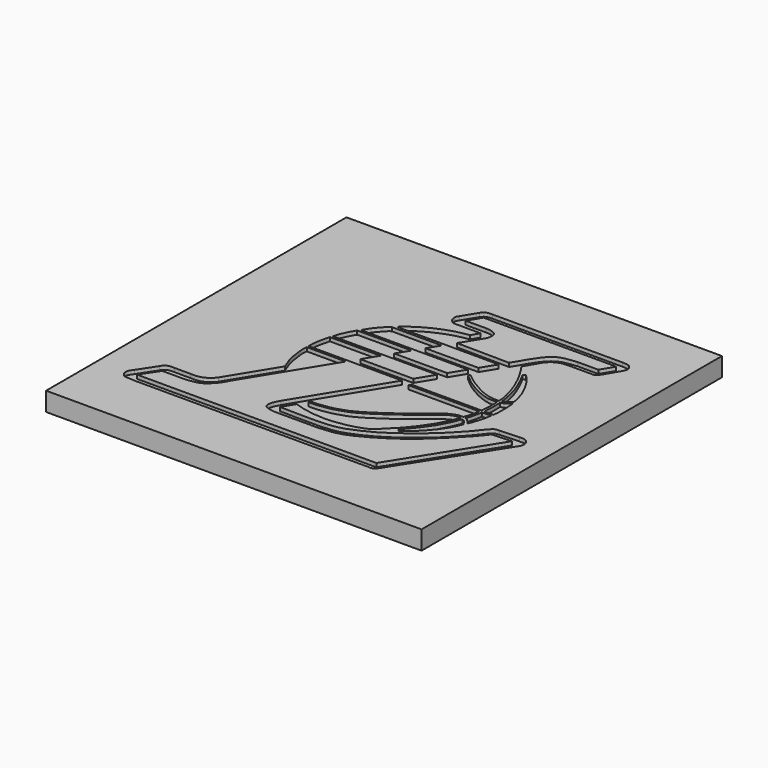
from build123d import *

# Parameters (mm, degrees)
F0_W     = 100
F0_H     = 100
F1_DEPTH = 5
F3_DEPTH = 1


with BuildPart() as f1:
    # F0 (on Top) → F1 (new body)
    with BuildSketch(Plane.XY):
        with Locations((-50, 50)):
            Rectangle(F0_W, F0_H)
    extrude(amount=F1_DEPTH)

    # F2 (on face) → F3 (cut)
    with BuildSketch(Plane.XY.offset(5)):
        with BuildLine():
            Line((-51.5274539174, 79.123011928), (-49.4849421084, 82.5271908258))
            Line((-49.4849421084, 82.5271908258), (-14.1663281247, 82.5271908258))
            Line((-14.1663281247, 82.5271908258), (-16.2088399337, 79.123011928))
            Line((-16.2088399337, 79.123011928), (-21.741559729, 79.123011928))
            add(Edge.make_bspline(
                [(-32.670173794, 69.9614882469), (-32.4207677421, 70.2997881837), (-31.7335162522, 71.5871950323), (-30.3650841851, 73.8327382776), (-29.4141445743, 75.2925391817), (-28.6032452797, 76.3909434638), (-27.5857577226, 77.4199337587), (-26.4899431304, 78.196814775), (-25.2139650171, 78.6338036192), (-23.993198061, 78.886434844), (-22.5612169246, 79.0368566919), (-21.741559729, 79.123011928)],
                knots=[0, 0, 0, 0, 0.1155700486, 0.258313772, 0.3722297886, 0.471901715, 0.5750680057, 0.6751662509, 0.7733763566, 0.8694233338, 1, 1, 1, 1], degree=3))
            Line((-32.670173794, 69.9614882469), (-33.8627376864, 68.0149895725))
            Line((-33.8627376864, 68.0149895725), (-36.1984442072, 64.2026574406))
            Line((-36.1984442072, 64.2026574406), (-37.4150750561, 62.2168767628))
            Line((-37.4150750561, 62.2168767628), (-39.8096593654, 58.3084445074))
            Line((-39.8096593654, 58.3084445074), (-40.9796684294, 56.3987597463))
            Line((-40.9796684294, 56.3987597463), (-43.7276395229, 51.9135307997))
            Line((-43.7276395229, 51.9135307997), (-45.0325298593, 49.7836932906))
            Line((-45.0325298593, 49.7836932906), (-58.9935444295, 26.9965734333))
            add(Edge.make_bspline(
                [(-58.9935444295, 26.9965734333), (-59.1089134494, 26.778688134), (-59.3390352058, 26.3440814447), (-59.7227659267, 25.708858343), (-59.8749726799, 25.1469248385), (-60.0307646349, 24.6504624154), (-60.092519483, 24.2851666921), (-60.1512937492, 23.8268908819), (-59.9960524099, 23.4879367807), (-59.8254652769, 23.0827130475), (-59.3674972344, 22.7939096379), (-58.9107571763, 22.620688487), (-58.2200560949, 22.4304876058), (-57.5580783362, 22.3060091873), (-56.9313356625, 22.2891100575), (-56.5902963281, 22.2799144685)],
                knots=[0, 0, 0, 0, 0.0879843118, 0.1754986251, 0.2535986176, 0.3261649004, 0.3888143365, 0.4565446855, 0.5182881447, 0.584817462, 0.657984844, 0.730051745, 0.8152179706, 0.8994516522, 1, 1, 1, 1], degree=3))
            Line((-56.5902963281, 22.2799144685), (-45.5174744129, 22.2799144685))
            add(Edge.make_bspline(
                [(-45.5174744129, 22.2799144685), (-44.7162945899, 22.327896045), (-43.0730683384, 22.4263066438), (-40.392567217, 22.8504232175), (-37.7822119618, 23.8244855023), (-35.155937862, 25.1822379168), (-32.4785995081, 26.689092178), (-30.0846185551, 28.3282236087), (-27.3424116145, 30.1820819101), (-24.7029214, 32.5136614001), (-22.204278794, 34.8393226509), (-19.3142628061, 37.7894359909), (-17.78847906, 39.4463804714), (-15.7710164554, 41.8348394373), (-15.4766995306, 42.3245751651), (-15.3805986047, 42.4844846129)],
                knots=[0, 0, 0, 0, 0.0717935317, 0.1472491101, 0.2238532178, 0.3030283935, 0.383425003, 0.4617121134, 0.5452465862, 0.6310919442, 0.7175012778, 0.8094485551, 0.8819230539, 0.9614452894, 1, 1, 1, 1], degree=3))
            Line((-15.3805986047, 42.4844846129), (-10.1325800642, 42.7405685186))
            Line((-10.1325800642, 42.7405685186), (-26.0196737945, 17.4656435847))
            Line((-26.0196737945, 17.4656435847), (-89.8087695241, 17.4656435847))
            Line((-89.8087695241, 17.4656435847), (-86.6794958711, 22.0392029732))
            Line((-86.6794958711, 22.0392029732), (-80.9023678303, 22.0392029732))
            add(Edge.make_bspline(
                [(-80.9023678303, 22.0392029732), (-80.3952686627, 22.0733266084), (-79.3075450851, 22.1465215276), (-77.1928643341, 22.5561013518), (-75.8236086625, 23.4927975471), (-74.4074211988, 24.8613977392), (-73.4846877985, 26.170572945), (-73.2192637528, 26.7502005877), (-73.1064442932, 26.9965734333)],
                knots=[0, 0, 0, 0, 0.1664230591, 0.3569761041, 0.5264039782, 0.7112912477, 0.8772832908, 1, 1, 1, 1], degree=3))
            Line((-73.1064442932, 26.9965734333), (-59.5150309684, 49.1804314119))
            Line((-59.5150309684, 49.1804314119), (-69.9126943946, 49.1804314119))
            add(Edge.make_bspline(
                [(-68.0573433638, 39.5721420646), (-68.2883722623, 40.1292456865), (-68.758577561, 41.2630998344), (-69.3833843926, 43.1419321324), (-69.6791884696, 44.9171452983), (-69.9431994699, 46.7702351474), (-70.060460001, 48.2263119729), (-69.9582135339, 48.8865152788), (-69.9126943946, 49.1804314119)],
                knots=[0, 0, 0, 0, 0.1770116204, 0.3602657605, 0.5366059514, 0.7163207393, 0.873708734, 1, 1, 1, 1], degree=3))
            Line((-68.0573433638, 39.5721420646), (-75.7059953451, 27.0880386658))
            add(Edge.make_bspline(
                [(-81.3244432211, 24.6975310147), (-80.7851521368, 24.6734995076), (-79.7580720605, 24.6277314932), (-78.4687348996, 24.9438131453), (-77.3615439428, 25.4579109676), (-76.2079722104, 26.4135483498), (-75.8563506614, 26.8860110191), (-75.7059953451, 27.0880386658)],
                knots=[0, 0, 0, 0, 0.2232029151, 0.4250900372, 0.6228371726, 0.838723092, 1, 1, 1, 1], degree=3))
            Line((-81.3244432211, 24.6975310147), (-85.6183171272, 24.6975310147))
            add(Edge.make_bspline(
                [(-88.4808972478, 23.4093684703), (-88.3574140405, 23.6140664075), (-88.1191992487, 24.0089547292), (-87.6436289867, 24.4213964202), (-87.1274570842, 24.5792483627), (-86.543513996, 24.7371018432), (-85.9492395829, 24.7116846248), (-85.6183171272, 24.6975310147)],
                knots=[0, 0, 0, 0, 0.2058559052, 0.3971221892, 0.5740939003, 0.7628336518, 1, 1, 1, 1], degree=3))
            Line((-88.4808972478, 23.4093684703), (-91.4866104722, 18.8292358071))
            add(Edge.make_bspline(
                [(-91.4866104722, 18.8292358071), (-91.5865468885, 18.6814704035), (-91.7927705148, 18.3765502268), (-92.1706736836, 17.8859473933), (-92.3530573251, 17.386403514), (-92.3968852404, 16.8955632965), (-92.3273539408, 16.3115577532), (-91.991168287, 15.8441559925), (-91.5075034766, 15.2820594638), (-90.711896584, 15.1087041652), (-89.4136798971, 15.1581064586), (-88.9574361545, 15.0282905513), (-88.7671634555, 15.029096263)],
                knots=[0, 0, 0, 0, 0.0909870949, 0.1876372969, 0.2764277071, 0.3624542104, 0.4548438056, 0.5479276282, 0.6505327174, 0.7609442036, 0.9011528345, 1, 1, 1, 1], degree=3))
            Line((-88.7671634555, 15.029096263), (-27.8437483388, 15.029096263))
            add(Edge.make_bspline(
                [(-27.8437483388, 15.029096263), (-26.7927473463, 15.029096263), (-26.2490488331, 15.0861949184), (-25.2766856847, 14.8845759952), (-24.2377253917, 15.6992424739), (-23.7328935771, 16.6255797665), (-23.5178321767, 16.9556157509), (-23.2116782542, 17.4380535585)],
                knots=[0, 0, 0, 0, 0.2475673294, 0.4136202212, 0.6237597499, 0.8078326564, 1, 1, 1, 1], degree=3))
            Line((-23.2116782542, 17.4380535585), (-7.7246227302, 41.7135432363))
            add(Edge.make_bspline(
                [(-9.9953291938, 45.1341643929), (-9.6104331231, 45.1613091822), (-8.8809884116, 45.2140914341), (-7.9796021451, 44.8439218738), (-7.3133538695, 44.0653981303), (-7.2325865589, 43.035582421), (-7.3273173141, 42.291388582), (-7.4920379557, 42.1071462333), (-7.7246227302, 41.7135432363)],
                knots=[0, 0, 0, 0, 0.1854628649, 0.3550038957, 0.5283051546, 0.706123436, 0.8466467853, 1, 1, 1, 1], degree=3))
            Line((-9.9953291938, 45.1341643929), (-15.1569163427, 44.8811464012))
            add(Edge.make_bspline(
                [(-15.1569163427, 44.8811464012), (-15.509211327, 44.8689472778), (-16.1477380185, 44.8468366425), (-16.6878644735, 44.4367362275), (-17.5271686579, 43.688460075), (-18.4993792814, 42.2559469242), (-19.6729776663, 40.9040828806), (-20.5571551623, 39.9898672488), (-22.0655724005, 38.3263969258), (-23.946675396, 36.4175563004), (-26.2285751646, 34.3193403725), (-29.2849105435, 31.8778408397), (-31.8907463705, 30.0233404482), (-34.8058512741, 28.1332359396), (-37.7897127944, 26.6720257137), (-41.9736457936, 24.8502092602), (-46.6895842634, 24.5257099897), (-50.1036250124, 24.5406202963), (-54.8194944606, 24.584203946), (-56.7002408523, 24.6629871582), (-57.4507713318, 24.6589686722)],
                knots=[0, 0, 0, 0, 0.034151998, 0.0617224506, 0.0977739627, 0.1439616544, 0.190030265, 0.2290072521, 0.2801439656, 0.337081574, 0.3983746018, 0.4666916822, 0.5291400659, 0.5927700686, 0.655987821, 0.7298902115, 0.8043963791, 0.8696046856, 0.9443420862, 1, 1, 1, 1], degree=3))
            Line((-57.4507713318, 24.6589686722), (-55.5387474597, 27.8196576983))
            add(Edge.make_bspline(
                [(-55.5387474597, 27.8196576983), (-55.1296788837, 27.6787877431), (-54.1920295102, 27.3558916982), (-51.8813473774, 26.7899749387), (-49.4905552075, 26.4512841548), (-46.1645975549, 26.2722669771), (-43.2022287547, 26.6825118028), (-40.6703930845, 27.0695206795), (-37.6990537686, 28.0147411617), (-36.1175847797, 28.8735841505), (-34.8263706267, 30.1520408805), (-33.1994718949, 31.769215628), (-31.2663880097, 33.7612353588), (-29.8025409128, 35.6576700877), (-28.3972948906, 37.6414577898), (-27.1435603032, 39.5883137526), (-25.9808134115, 41.8491105352), (-25.1100276241, 43.8316666683), (-25.0631994789, 44.2254007597), (-25.0482428819, 44.351156801)],
                knots=[0, 0, 0, 0, 0.0464302756, 0.1064254782, 0.1683863943, 0.2400169737, 0.3079149942, 0.3715296619, 0.4404534576, 0.4929315832, 0.5448011876, 0.6046610728, 0.6703138561, 0.7314812584, 0.7923438522, 0.8521346158, 0.9164803296, 0.9733243746, 1, 1, 1, 1], degree=3))
            add(Edge.make_bspline(
                [(-25.0482428819, 44.351156801), (-25.2143799968, 44.3543519105), (-25.5748076388, 44.3612835693), (-26.271845443, 44.2966519518), (-27.3969327211, 43.9558139606), (-28.328632578, 43.345308443), (-29.4847439366, 42.5352745303), (-30.3144229394, 41.8554069328), (-31.1564534491, 41.0874470068), (-32.1523622276, 40.35202403), (-32.8518645939, 39.6568557918), (-34.1458081043, 38.7534153533), (-34.9688384189, 38.0647537522), (-36.2971591494, 37.0682292281), (-37.0070666668, 36.5935368739), (-37.966472872, 35.8732802013), (-39.32963336, 34.9897722868), (-40.392105845, 34.2600356198), (-41.2384479531, 33.7330780617), (-42.3996393577, 33.0598222273), (-43.2324426226, 32.5592796531), (-44.1677029229, 32.1172925748), (-44.9418947299, 31.7381876777), (-46.5499939967, 31.1854268497), (-47.9793448792, 30.7150536496), (-49.4127718153, 30.452144007), (-50.7219895154, 30.2402646939), (-51.8582892051, 30.0860593502), (-52.844109957, 30.0593643431), (-53.6975501255, 30.0471736228), (-54.1559681296, 30.0406254828)],
                knots=[0, 0, 0, 0, 0.0235682083, 0.0511302591, 0.0865490308, 0.121954274, 0.160975609, 0.1953204209, 0.2305630489, 0.2669068773, 0.3002229076, 0.3409048829, 0.3764603701, 0.4182851805, 0.4490992534, 0.4847617299, 0.5273624182, 0.5647323236, 0.5978156771, 0.6357707484, 0.6688847633, 0.701657115, 0.7325660914, 0.7752725991, 0.8164932175, 0.8561733534, 0.894346833, 0.9293823962, 0.962068365, 1, 1, 1, 1], degree=3))
            Line((-54.1559681296, 30.0406254828), (-53.858101368, 30.5618941784))
            add(Edge.make_bspline(
                [(-53.858101368, 30.5618941784), (-53.6188092003, 30.559533096), (-53.094761066, 30.5543623424), (-52.0300038088, 30.6013562016), (-50.6258135978, 30.7738769596), (-49.0787182665, 31.0521506826), (-47.5615246836, 31.3727867182), (-46.3571084068, 31.8583688651), (-45.0700929187, 32.2534334775), (-44.2185593908, 32.7225323377), (-42.9991910128, 33.3498843828), (-41.9241359677, 33.9884540775), (-40.7105227323, 34.8288518128), (-39.6126600238, 35.4563799671), (-38.3860299963, 36.3853720351), (-36.9373304358, 37.3588487579), (-35.8572612533, 38.1661461765), (-34.7041636508, 39.0622811732), (-33.5283303052, 39.9155448103), (-32.1241177648, 41.1767818619), (-31.0868971424, 41.9772307397), (-30.2460904011, 42.6714255408), (-29.4485199, 43.356249675), (-28.644559762, 43.8865044123), (-27.8677849671, 44.3324472389), (-26.861352586, 44.7039156176), (-26.1555313394, 44.972518576), (-25.367812351, 44.9957903404), (-25.0230781901, 44.993187956), (-24.8696412891, 44.9920296669)],
                knots=[0, 0, 0, 0, 0.0291198174, 0.0637721916, 0.1040555126, 0.1467203874, 0.188603493, 0.2273567287, 0.2659622533, 0.2994498864, 0.3384726244, 0.3767703246, 0.4174277927, 0.4554013911, 0.4972894953, 0.5419295906, 0.5813073436, 0.6215073342, 0.6626605874, 0.7090100174, 0.7478405665, 0.7827853312, 0.8173517945, 0.8502600098, 0.8823926271, 0.9171383567, 0.9468104639, 0.9763259969, 1, 1, 1, 1], degree=3))
            add(Edge.make_bspline(
                [(-24.8696412891, 44.9920296669), (-24.7519384993, 45.31687358), (-24.5088290729, 45.9878229899), (-24.0813067757, 47.1242915904), (-23.9206740787, 48.0577848721), (-23.8686938848, 48.6873129767), (-23.842792958, 49.0009970963)],
                knots=[0, 0, 0, 0, 0.2532662682, 0.523109242, 0.7623727099, 1, 1, 1, 1], degree=3))
            Line((-23.842792958, 49.0009970963), (-42.6798723638, 49.0009970963))
            Line((-42.6798723638, 49.0009970963), (-42.3522081159, 49.6139153838))
            Line((-42.3522081159, 49.6139153838), (-23.66989851, 49.6139153838))
            add(Edge.make_bspline(
                [(-23.66989851, 49.6139153838), (-23.6231862489, 50.1171314112), (-23.5330155832, 51.0885107274), (-23.5316546731, 52.39260781), (-23.5024492238, 53.3904611689), (-23.5301739234, 54.2651110926), (-23.5664108004, 54.5698142466), (-23.5812962055, 54.6949803829)],
                knots=[0, 0, 0, 0, 0.2476317137, 0.4780140369, 0.6824095963, 0.8695400318, 1, 1, 1, 1], degree=3))
            add(Edge.make_bspline(
                [(-23.5812962055, 54.6949803829), (-23.8828176674, 54.6557018754), (-24.5583367563, 54.5677035571), (-26.0826538482, 54.6406059603), (-27.5759784095, 55.0812777396), (-29.4050942013, 55.8179023684), (-30.6637213138, 56.4870383141), (-32.4305662347, 57.543227444), (-33.784629001, 58.4970370971), (-34.5617763674, 59.204989419), (-35.3287460646, 59.8441043958), (-35.7505120337, 60.1955614984)],
                knots=[0, 0, 0, 0, 0.0889820298, 0.1993525081, 0.3141730672, 0.4397500682, 0.5492072737, 0.6791201668, 0.7952839094, 0.8874241307, 1, 1, 1, 1], degree=3))
            add(Edge.make_bspline(
                [(-35.7505120337, 60.1955614984), (-35.6577038765, 60.3502417604), (-35.5648957193, 60.5049220224), (-35.4720875621, 60.6596022844)],
                knots=[0, 0, 0, 0, 0.5411599001, 0.5411599001, 0.5411599001, 0.5411599001], degree=3))
            add(Edge.make_bspline(
                [(-35.4720875621, 60.6596022844), (-35.3533696159, 60.5754437808), (-35.0673920113, 60.3727158191), (-34.3728268058, 59.7156292437), (-32.7763512262, 58.5268191368), (-30.8195971566, 57.3809012438), (-28.8114246498, 56.285138886), (-26.873689945, 55.5539793878), (-25.23125534, 55.2512598192), (-24.1304057864, 55.2527880971), (-23.5812962055, 55.2535504103)],
                knots=[0, 0, 0, 0, 0.0674797312, 0.1625507557, 0.3023186866, 0.4535839857, 0.6039425267, 0.7459712627, 0.873289122, 1, 1, 1, 1], degree=3))
            add(Edge.make_bspline(
                [(-23.5812962055, 55.2535504103), (-23.5916529001, 55.6971174004), (-23.6146091719, 56.6803118297), (-24.0923428554, 58.6888607894), (-24.6785476403, 60.7344634714), (-25.2783322573, 62.4152310137), (-25.9279168718, 63.7966406082), (-26.5345954676, 65.2632812531), (-27.5558987867, 67.0331773188), (-28.4900696092, 68.6491832445), (-29.1863709661, 69.6858619796), (-29.4775057002, 70.0916787402), (-29.6019986272, 70.265211165)],
                knots=[0, 0, 0, 0, 0.0933122443, 0.2068325209, 0.3233118244, 0.4286046356, 0.5252362362, 0.6244958961, 0.7380711887, 0.847374025, 0.9347351857, 1, 1, 1, 1], degree=3))
            add(Edge.make_bspline(
                [(-29.6019986272, 70.265211165), (-29.2679231663, 70.8512749693), (-28.5601584182, 72.092896547), (-27.2525256594, 74.4676961292), (-26.2335437912, 75.4872598169), (-24.9736502238, 76.3691995769), (-23.2477094681, 76.7156376237), (-21.5182664409, 76.7256265538), (-18.4952551033, 76.7149635542), (-16.5323021992, 76.7379505013), (-15.7100117543, 76.6871269132), (-14.9702291736, 76.8479226238), (-14.4837569445, 77.5161889619), (-14.1720342288, 78.0344436821), (-14.0095772222, 78.3045366406)],
                knots=[0, 0, 0, 0, 0.0983605377, 0.2083844201, 0.289034277, 0.3706720359, 0.4579929442, 0.5475085128, 0.6655723586, 0.7598977024, 0.8195543161, 0.8751990587, 0.9349589031, 1, 1, 1, 1], degree=3))
            Line((-14.0095772222, 78.3045366406), (-11.8022244424, 82.0570364594))
            add(Edge.make_bspline(
                [(-11.8022244424, 82.0570364594), (-11.6467443114, 82.4782150653), (-11.3483810817, 83.2864482993), (-12.0529313503, 84.2525989721), (-12.7795313063, 84.7743045956), (-13.7714942633, 84.8009457003), (-14.3406810239, 84.8162323236)],
                knots=[0, 0, 0, 0, 0.2592087279, 0.4974163111, 0.711618282, 1, 1, 1, 1], degree=3))
            Line((-14.3406810239, 84.8162323236), (-48.9961244166, 84.8162323236))
            add(Edge.make_bspline(
                [(-51.5441447496, 83.6557820439), (-51.4518159869, 83.7957726593), (-51.2547996963, 84.0944924833), (-50.743393019, 84.5478805445), (-49.9867237065, 84.8340326618), (-49.3387791254, 84.8223895759), (-48.9961244166, 84.8162323236)],
                knots=[0, 0, 0, 0, 0.2101744666, 0.448482061, 0.7083389162, 1, 1, 1, 1], degree=3))
            Line((-51.5441447496, 83.6557820439), (-53.8213141263, 79.9110978842))
            add(Edge.make_bspline(
                [(-53.8213141263, 79.9110978842), (-53.9571883831, 79.7306624945), (-54.2243099813, 79.3759360672), (-54.3160942871, 78.7504392775), (-54.1783535964, 78.1002585706), (-54.0853528972, 77.6720653286), (-53.8091825062, 77.4246498337), (-53.5836270653, 77.1365565581), (-53.2084169191, 76.8684871626), (-53.0065291758, 76.7422087252), (-52.8404721628, 76.6766983941), (-52.7555942535, 76.6432136297)],
                knots=[0, 0, 0, 0, 0.13664494, 0.2686367206, 0.4058806596, 0.5155314191, 0.6144623351, 0.7177851339, 0.8309520367, 0.9135933049, 1, 1, 1, 1], degree=3))
            Line((-52.7555942535, 76.6432136297), (-45.5757565796, 76.6432136297))
            Line((-45.5757565796, 76.6432136297), (-46.7586740851, 74.6354982257))
            add(Edge.make_bspline(
                [(-61.0533207655, 68.0149895725), (-60.3875115673, 68.6101731199), (-58.9832764091, 69.8654541601), (-56.0391005314, 71.6349077997), (-53.3689750763, 72.8718761575), (-50.4861847993, 73.9175132447), (-48.2530646627, 74.3826915912), (-47.2194405263, 74.5575501879), (-46.7586740851, 74.6354982257)],
                knots=[0, 0, 0, 0, 0.1712130655, 0.3610995564, 0.5396694553, 0.7200350085, 0.8751978904, 1, 1, 1, 1], degree=3))
            Line((-61.0533207655, 68.0149895725), (-47.9756375501, 68.0149895725))
            Line((-47.9756375501, 68.0149895725), (-46.6798686318, 70.1299391345))
            add(Edge.make_bspline(
                [(-46.1684168571, 79.123011928), (-45.033902524, 79.123011928), (-43.877552944, 78.6977371476), (-43.1123579228, 78.1830447291), (-42.8597236486, 76.9976160228), (-43.1063183686, 75.920141702), (-43.592493823, 75.1276350208), (-44.8865633331, 72.9457463797), (-46.3048247113, 70.7522240195), (-46.6798686318, 70.1299391345)],
                knots=[0, 0, 0, 0, 0.1740645639, 0.2738372497, 0.3929623779, 0.5088949965, 0.6140188039, 0.7956770269, 1, 1, 1, 1], degree=3))
            Line((-46.1684168571, 79.123011928), (-51.5274539174, 79.123011928))
        make_face()
        with BuildLine():
            add(Edge.make_bspline(
                [(-22.8908527642, 54.7665655613), (-22.8620686718, 54.5430076177), (-22.8922311259, 54.2081685757), (-22.8021032062, 53.0192330166), (-22.9101914704, 51.0385183136), (-22.9072959745, 50.6428764395), (-22.9624174535, 49.6139153838)],
                knots=[0, 0, 0, 0, 0.1675200269, 0.4119446557, 0.7097878441, 1, 1, 1, 1], degree=3))
            Line((-22.9624174535, 49.6139153838), (-20.5872505903, 49.6139153838))
            add(Edge.make_bspline(
                [(-20.5872505903, 49.6139153838), (-20.518464939, 50.017494527), (-20.3697490315, 50.8831775656), (-20.3732495478, 52.6588820533), (-20.3846741798, 54.3009583366), (-20.5074372753, 55.5214952059), (-20.5563530326, 56.0468100011)],
                knots=[0, 0, 0, 0, 0.222640502, 0.4840480959, 0.7410502585, 1, 1, 1, 1], degree=3))
            add(Edge.make_bspline(
                [(-20.5563530326, 56.0468100011), (-20.7260479314, 55.9144107536), (-21.0511680574, 55.660352315), (-21.4541719942, 55.3525440265), (-22.2005136535, 54.9293582291), (-22.6711072298, 54.82278104), (-22.8908527642, 54.7665655613)],
                knots=[0, 0, 0, 0, 0.2410394116, 0.460703599, 0.7413199527, 1, 1, 1, 1], degree=3))
        make_face()
        with BuildLine():
            add(Edge.make_bspline(
                [(-27.0794909447, 67.4399062991), (-26.8283004759, 67.0198721659), (-26.286902643, 66.1145608673), (-25.3920421282, 64.2434592211), (-24.8701740962, 62.8779108805), (-24.2957439498, 61.5399422257), (-23.9134869444, 60.2426452161), (-23.5034561368, 58.5935845951), (-23.1663036969, 57.0376008995), (-23.0430841953, 55.9281111383), (-22.9738036606, 55.5785974263), (-22.9463577271, 55.4401353002)],
                knots=[0, 0, 0, 0, 0.1176323357, 0.2535362585, 0.3691786055, 0.4815541499, 0.5917411607, 0.7152984425, 0.8367109611, 0.9353119871, 1, 1, 1, 1], degree=3))
            add(Edge.make_bspline(
                [(-22.9463577271, 55.4401353002), (-22.7503743924, 55.5396516992), (-22.3337806285, 55.7511896411), (-21.5464211226, 56.1176322558), (-21.0676785149, 56.5388125171), (-20.8209976554, 56.7558333278)],
                knots=[0, 0, 0, 0, 0.3010025492, 0.6398288158, 1, 1, 1, 1], degree=3))
            add(Edge.make_bspline(
                [(-20.8209976554, 56.7558333278), (-20.9091462795, 57.2085825354), (-21.0858917672, 58.1163831993), (-21.4557002657, 59.4821522529), (-21.8218189283, 60.686119561), (-22.435254068, 61.9496096854), (-22.9930805758, 63.175640893), (-23.6892700533, 64.3089244948), (-24.3568219965, 65.4154948636), (-24.9439359739, 66.1266992058), (-25.7014065879, 67.0393593273), (-26.1709910622, 67.5614319337), (-26.3996273279, 67.8156241775)],
                knots=[0, 0, 0, 0, 0.1054199248, 0.2113759143, 0.3117457175, 0.41722242, 0.5211342027, 0.6248453063, 0.7255716325, 0.811768374, 0.908351791, 1, 1, 1, 1], degree=3))
            Line((-26.3996273279, 67.8156241775), (-27.0794909447, 67.4399062991))
        make_face()
        with BuildLine():
            Line((-31.9131314754, 32.178979367), (-31.4314477146, 31.57652542))
            add(Edge.make_bspline(
                [(-31.4314477146, 31.57652542), (-30.7827535896, 32.0733509139), (-29.4327557467, 33.107294832), (-27.3826334127, 34.9996835433), (-24.6203738362, 38.3671904031), (-23.5003749633, 40.5626958952), (-22.9716701848, 41.7543869265), (-22.7275937796, 42.3045307398)],
                knots=[0, 0, 0, 0, 0.1891031134, 0.393542635, 0.6455577043, 0.8363718187, 1, 1, 1, 1], degree=3))
            add(Edge.make_bspline(
                [(-22.7275937796, 42.3045307398), (-22.9066645744, 42.6448086828), (-23.2143982844, 43.2295773714), (-23.5350945837, 43.6162091588), (-24.1344582327, 44.0119454605), (-24.2759904731, 44.0587096661), (-24.3058901687, 44.0663482064)],
                knots=[0, 0, 0, 0, 0.3392949109, 0.5830793449, 0.867035873, 0.956967484, 0.956967484, 0.956967484, 0.956967484], degree=3))
            add(Edge.make_bspline(
                [(-24.3058901666, 44.0663482284), (-24.5094618739, 43.6033710608), (-24.9158117097, 42.6791847401), (-25.3881855761, 41.3204690677), (-26.4430488104, 39.4684682147), (-27.0025411796, 38.3068086576), (-27.9961689948, 37.1471067532), (-28.6950075884, 35.966072373), (-29.9442949055, 34.4711951456), (-30.7178264418, 33.5218807028), (-31.4920718473, 32.6520314509), (-31.9131314754, 32.178979367)],
                knots=[4.46067e-05, 4.46067e-05, 4.46067e-05, 4.46067e-05, 0.1082988646, 0.2161431954, 0.3445895978, 0.4468827948, 0.5536663668, 0.6597198119, 0.7819119373, 0.8813966761, 1, 1, 1, 1], degree=3))
        make_face()
        with BuildLine():
            Line((-20.70431225, 49.0009970963), (-23.0845846236, 49.0009970963))
            add(Edge.make_bspline(
                [(-23.0845846236, 49.0009970963), (-23.1371500456, 48.6573745418), (-23.2455256223, 47.948918468), (-23.5293849167, 46.7765373112), (-23.7991266836, 45.8078716597), (-24.0132365875, 45.155126425), (-24.1205859929, 44.8278561234)],
                knots=[0, 0, 0, 0, 0.2489751964, 0.5133190117, 0.7559902006, 1, 1, 1, 1], degree=3))
            add(Edge.make_bspline(
                [(-24.1205859929, 44.8278561234), (-23.9639586264, 44.7812959839), (-23.6121303457, 44.6767090639), (-23.0849070801, 44.0871126651), (-22.6076013196, 43.5517779751), (-22.4103660244, 43.3253017493), (-22.3256275058, 43.2280004025)],
                knots=[0, 0, 0, 0, 0.2298308418, 0.5162634837, 0.7921714987, 1, 1, 1, 1], degree=3))
            add(Edge.make_bspline(
                [(-22.3256275058, 43.2280004025), (-22.1431888625, 43.630566615), (-21.7846482255, 44.4217166897), (-21.4806359688, 45.6126691904), (-21.0984885962, 46.7659230745), (-20.8243607618, 47.9788879369), (-20.7430174714, 48.6714556411), (-20.70431225, 49.0009970963)],
                knots=[0, 0, 0, 0, 0.2089647074, 0.4106714342, 0.6123784113, 0.8155597184, 1, 1, 1, 1], degree=3))
        make_face()
        Polygon((-45.0325298593, 49.7836932906), (-43.7276395229, 51.9135307997), (-57.8405393866, 51.9135307997), (-59.145429723, 49.7836932906), align=None)
        Polygon((-40.9796684294, 56.3987597463), (-39.8096593654, 58.3084445074), (-53.9225592291, 58.3084445074), (-55.092568293, 56.3987597463), align=None)
        with BuildLine():
            Line((-53.9225592291, 58.3084445074), (-51.9123194332, 61.5895509729))
            Line((-51.9123194332, 61.5895509729), (-66.4345696568, 61.5895509729))
            add(Edge.make_bspline(
                [(-68.7314420938, 56.3987597463), (-68.6316894814, 56.795569605), (-68.4184403883, 57.643861599), (-67.7827951241, 59.1542787438), (-67.0786000185, 60.5012949427), (-66.6417085163, 61.2395362433), (-66.4345696568, 61.5895509729)],
                knots=[0, 0, 0, 0, 0.2364995978, 0.5055839995, 0.7655876438, 1, 1, 1, 1], degree=3))
            Line((-68.7314420938, 56.3987597463), (-55.092568293, 56.3987597463))
            Line((-55.092568293, 56.3987597463), (-53.9225592291, 58.3084445074))
        make_face()
        with BuildLine():
            Line((-59.145429723, 49.7836932906), (-57.8405393866, 51.9135307997))
            Line((-57.8405393866, 51.9135307997), (-55.5104829588, 55.7166408694))
            Line((-55.5104829588, 55.7166408694), (-68.9939409494, 55.7166408694))
            add(Edge.make_bspline(
                [(-69.9126943946, 49.7836932906), (-69.9281735258, 50.1804234317), (-69.9641313707, 51.1020230192), (-69.619892669, 53.3369978937), (-69.2066232895, 54.9080992187), (-68.9939409494, 55.7166408694)],
                knots=[0, 0, 0, 0, 0.2684021385, 0.623495103, 1, 1, 1, 1], degree=3))
            Line((-69.9126943946, 49.7836932906), (-59.145429723, 49.7836932906))
        make_face()
        with BuildLine():
            Line((-50.3113440709, 64.2026574406), (-48.419766562, 67.2900837303))
            Line((-48.419766562, 67.2900837303), (-61.7095716298, 67.2900837303))
            add(Edge.make_bspline(
                [(-65.9751966596, 62.2168767628), (-65.7664525337, 62.5718297974), (-65.3235112882, 63.3250166887), (-64.3653593561, 64.6947108446), (-63.5166370064, 65.6472725404), (-62.2861307025, 67.0280016063), (-61.8638962428, 67.2199335509), (-61.7095716298, 67.2900837303)],
                knots=[0, 0, 0, 0, 0.1993624176, 0.4230338804, 0.6295211457, 0.8645918055, 1, 1, 1, 1], degree=3))
            Line((-65.9751966596, 62.2168767628), (-51.5279749198, 62.2168767628))
            Line((-51.5279749198, 62.2168767628), (-50.3113440709, 64.2026574406))
        make_face()
        Polygon((-37.4150750561, 62.2168767628), (-36.1984442072, 64.2026574406), (-50.3113440709, 64.2026574406), (-51.5279749198, 62.2168767628), align=None)
        Polygon((-32.670173794, 69.9614882469), (-46.6798686318, 70.1299391345), (-47.9756375501, 68.0149895725), (-33.8627376864, 68.0149895725), align=None)
    extrude(amount=-F3_DEPTH, mode=Mode.SUBTRACT)


solid = f1.part
